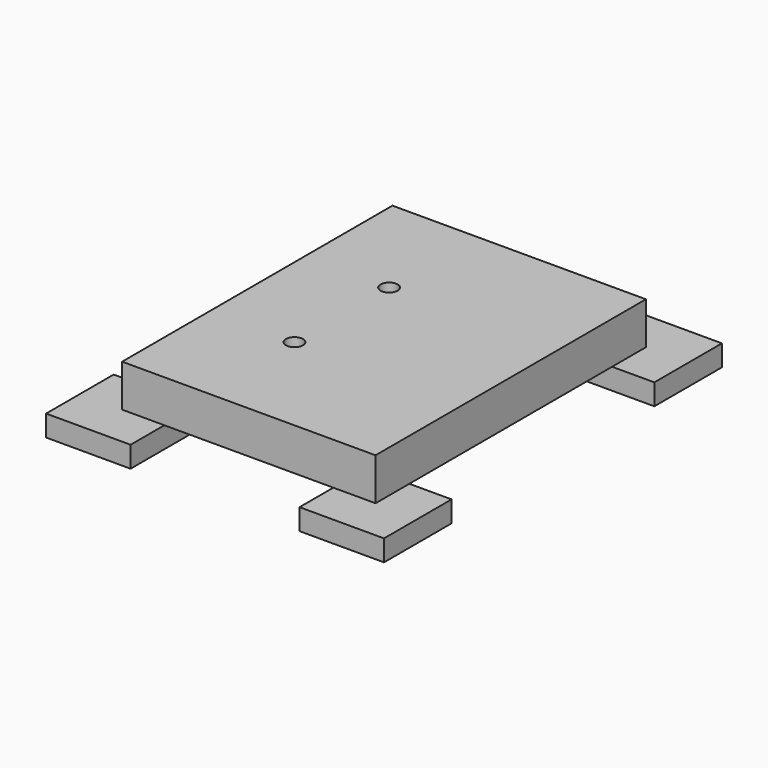
from build123d import *

# Parameters (mm, degrees)
F0_W     = 38.1
F0_H     = 50.8
F1_DEPTH = 6.35
F2_W     = 12.7
F2_H     = 12.7
F3_DEPTH = 3.175
F4_R     = 1.2827
F5_DEPTH = 25.4


with BuildPart() as f1:
    # F0 (on Top) → F1 (new body)
    with BuildSketch(Plane.XY):
        with Locations((19.05, 25.4)):
            Rectangle(F0_W, F0_H)
    extrude(amount=F1_DEPTH)

    # F2 (on face) → F3 (join)
    with BuildSketch(Plane(origin=(0, 0, 0), x_dir=(1, 0, 0), z_dir=(0, 0, -1))):
        Rectangle(F2_W, F2_H)
        with Locations((38.1, 0)):
            Rectangle(F2_W, F2_H)
        with Locations((0, -50.8)):
            Rectangle(F2_W, F2_H)
        with Locations((38.1, -50.8)):
            Rectangle(F2_W, F2_H)
    extrude(amount=F3_DEPTH)

    # F4 (on face) → F5 (cut)
    with BuildSketch(Plane(origin=(0, 0, 0), x_dir=(1, 0, 0), z_dir=(0, 0, -1))):
        with Locations((12.7, -16.51)):
            Circle(F4_R)
        with Locations((12.7, -34.29)):
            Circle(F4_R)
    extrude(amount=-F5_DEPTH, mode=Mode.SUBTRACT)


solid = f1.part
